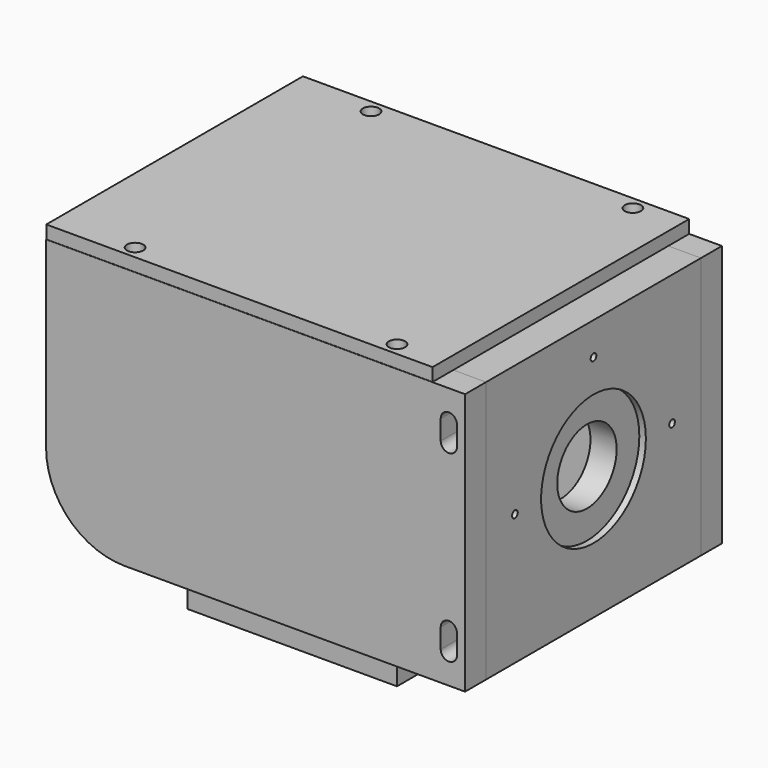
from build123d import *

# Parameters (mm, degrees)
F0_W      = 101.6
F0_H      = 143.002
F1_DEPTH  = 12.7
F2_W      = 101.6
F2_H      = 6.35
F3_DEPTH  = 127
F5_D      = 5.1054
F5_DEPTH  = 19.05
F5_TIP    = 1.5338169022
F7_DEPTH  = 25.4
F9_W      = 187.325
F9_H      = 155.575
F10_DEPTH = 6.35
F12_D     = 7.874
F13_W     = 15.875
F13_H     = 127
F14_DEPTH = 130.302
F16_D     = 5.1054
F16_DEPTH = 19.05
F16_TIP   = 1.5338169022
F18_D     = 5.1054
F18_DEPTH = 19.05
F18_TIP   = 1.5338169022
F19_R     = 18
F20_DEPTH = 25.4
F21_R     = 31.75
F22_DEPTH = 3.175
F24_D     = 3.4544
F24_DEPTH = 12.03325
F24_TIP   = 1.0378064612
F25_R     = 38.1
F25_2_R   = 38.1


with BuildPart() as f1:
    # F0 (on Top) → F1 (new body)
    with BuildSketch(Plane.XY):
        Rectangle(F0_W, F0_H)
        with BuildLine():
            Line((-30.226, -58.039), (-39.751, -58.039))
            ThreePointArc((-39.751, -58.039), (-43.815, -53.975), (-39.751, -49.911))
            Line((-39.751, -49.911), (-30.226, -49.911))
            ThreePointArc((-30.226, -49.911), (-26.162, -53.975), (-30.226, -58.039))
        make_face(mode=Mode.SUBTRACT)
        with BuildLine():
            ThreePointArc((39.751, -49.911), (43.815, -53.975), (39.751, -58.039))
            Line((39.751, -58.039), (30.226, -58.039))
            ThreePointArc((30.226, -58.039), (26.162, -53.975), (30.226, -49.911))
            Line((30.226, -49.911), (39.751, -49.911))
        make_face(mode=Mode.SUBTRACT)
        with BuildLine():
            ThreePointArc((-39.751, 49.911), (-43.815, 53.975), (-39.751, 58.039))
            Line((-39.751, 58.039), (-30.226, 58.039))
            ThreePointArc((-30.226, 58.039), (-26.162, 53.975), (-30.226, 49.911))
            Line((-30.226, 49.911), (-39.751, 49.911))
        make_face(mode=Mode.SUBTRACT)
        with BuildLine():
            ThreePointArc((39.751, 58.039), (43.815, 53.975), (39.751, 49.911))
            Line((39.751, 49.911), (30.226, 49.911))
            ThreePointArc((30.226, 49.911), (26.162, 53.975), (30.226, 58.039))
            Line((30.226, 58.039), (39.751, 58.039))
        make_face(mode=Mode.SUBTRACT)
    extrude(amount=-F1_DEPTH)


with BuildPart() as f3:
    # F2 (on face) → F3 (new body)
    with BuildSketch(Plane.XY):
        Polygon((88.9, -77.851), (88.9, -65.151), (50.8, -65.151), (50.8, -71.501), (-50.8, -71.501), (-50.8, -65.151), (-114.3, -65.151), (-114.3, -77.851), align=None)
        with Locations((0, -68.326)):
            Rectangle(F2_W, F2_H)
    extrude(amount=F3_DEPTH)

    # F5
    with Locations(Plane.XY.offset(127)):
        with Locations((-76.2, -71.501), (50.8, -71.501)):
            Hole(F5_D / 2, depth=F5_DEPTH)
            with Locations((0, 0, -(F5_DEPTH + F5_TIP / 2))):  # 118° drill point
                Cone(0, F5_D / 2, F5_TIP, mode=Mode.SUBTRACT)

    # F6 (on face) → F7 (cut)
    with BuildSketch(Plane.XZ.offset(77.851)):
        with BuildLine():
            ThreePointArc((77.089, 14.224), (81.026, 10.287), (84.963, 14.224))
            Line((84.963, 14.224), (84.963, 23.749))
            ThreePointArc((84.963, 23.749), (81.026, 27.686), (77.089, 23.749))
            Line((77.089, 23.749), (77.089, 14.224))
        make_face()
        with BuildLine():
            Line((84.963, 103.251), (84.963, 112.776))
            ThreePointArc((84.963, 112.776), (81.026, 116.713), (77.089, 112.776))
            Line((77.089, 112.776), (77.089, 103.251))
            ThreePointArc((77.089, 103.251), (81.026, 99.314), (84.963, 103.251))
        make_face()
    extrude(amount=-F7_DEPTH, mode=Mode.SUBTRACT)


with BuildPart() as f8_1:
    # F8: instance of F3
    add(f3.part.mirror(Plane.XZ))

    # F25
    f25_edges = [f8_1.edges().sort_by_distance(p)[0] for p in [
        (-114.3, 71.501, 0),
    ]]
    fillet(f25_edges, radius=F25_R)


with BuildPart() as f10:
    # F9 (on face) → F10 (new body)
    with BuildSketch(Plane.XY.offset(127)):
        with Locations((-20.6375, 0.0635)):
            Rectangle(F9_W, F9_H)
    extrude(amount=F10_DEPTH)

    # F12 (through all)
    with Locations(Plane.XY.offset(133.35)):
        with Locations((-76.2, 71.501), (50.8, 71.501), (-76.2, -71.501), (50.8, -71.501)):
            Hole(F12_D / 2)


with BuildPart() as f14:
    # F13 (on face) → F14 (new body, through all)
    with BuildSketch(Plane.XZ.offset(-65.151)):
        with Locations((80.9625, 63.5)):
            Rectangle(F13_W, F13_H)
    extrude(amount=F14_DEPTH)

    # F16
    with Locations(Plane.XZ.offset(65.151)):
        with Locations((81.026, 108.0135), (81.026, 18.9865)):
            Hole(F16_D / 2, depth=F16_DEPTH)
            with Locations((0, 0, -(F16_DEPTH + F16_TIP / 2))):  # 118° drill point
                Cone(0, F16_D / 2, F16_TIP, mode=Mode.SUBTRACT)

    # F18
    with Locations(Plane(origin=(0, 65.151, 0), x_dir=(-1, 0, 0), z_dir=(0, 1, 0))):
        with Locations((-81.026, 108.0135), (-81.026, 18.9865)):
            Hole(F18_D / 2, depth=F18_DEPTH)
            with Locations((0, 0, -(F18_DEPTH + F18_TIP / 2))):  # 118° drill point
                Cone(0, F18_D / 2, F18_TIP, mode=Mode.SUBTRACT)

    # F19 (on face) → F20 (cut)
    with BuildSketch(Plane.YZ.offset(88.9)):
        with Locations((0, 63.5)):
            Circle(F19_R)
    extrude(amount=-F20_DEPTH, mode=Mode.SUBTRACT)

    # F21 (on face) → F22 (cut)
    with BuildSketch(Plane.YZ.offset(88.9)):
        with Locations((0, 63.5)):
            Circle(F21_R)
    extrude(amount=-F22_DEPTH, mode=Mode.SUBTRACT)

    # F24
    with Locations(Plane.YZ.offset(88.9)):
        with Locations((0, 111.125), (47.625, 63.5), (-47.625, 63.5)):
            Hole(F24_D / 2, depth=F24_DEPTH)
            with Locations((0, 0, -(F24_DEPTH + F24_TIP / 2))):  # 118° drill point
                Cone(0, F24_D / 2, F24_TIP, mode=Mode.SUBTRACT)


with BuildPart() as f3_1:
    add(f3.part)

    # F25#2
    f25_2_edges = [f3_1.edges().sort_by_distance(p)[0] for p in [
        (-114.3, -71.501, 0),
    ]]
    fillet(f25_2_edges, radius=F25_2_R)


solid = Compound([f1.part, f8_1.part, f10.part, f14.part, f3_1.part])
